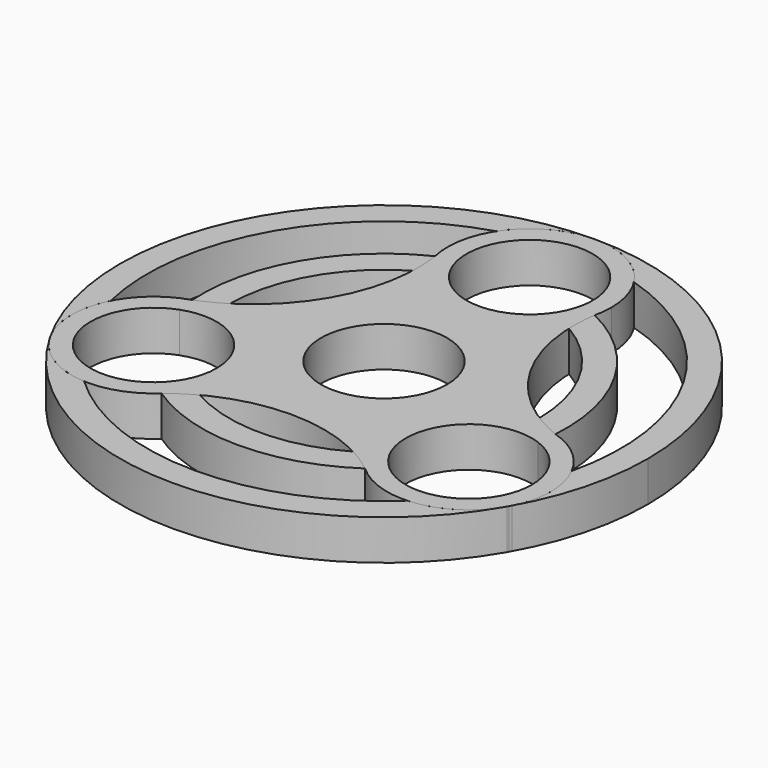
from build123d import *

# Parameters (mm, degrees)
F0_R     = 10.9982
F1_DEPTH = 7
F3_DEPTH = 7


with BuildPart() as f1:
    # F0 (on Top) → F1 (new body)
    with BuildSketch(Plane.XY):
        with BuildLine():
            ThreePointArc((14.2875, 31.75), (-1.6177474644, 45.94561726), (-13.9211508334, 28.5353125))
            ThreePointArc((-13.9211508334, 28.5353125), (-12.3938804515, 29.2310490293), (-10.8319806145, 29.84511176))
            ThreePointArc((-10.8319806145, 29.84511176), (-0.9560632943, 42.7065663516), (10.9982, 31.75))
            ThreePointArc((10.9982, 31.75), (10.9565663516, 30.7939367057), (10.8319806145, 29.84511176))
            ThreePointArc((10.8319806145, 29.84511176), (12.3938804515, 29.2310490293), (13.9211508334, 28.5353125))
            ThreePointArc((13.9211508334, 28.5353125), (14.19561726, 30.1322525356), (14.2875, 31.75))
        make_face()
        with BuildLine():
            ThreePointArc((-10.8319806145, 29.84511176), (-12.3938804515, 29.2310490293), (-13.9211508334, 28.5353125))
            ThreePointArc((-13.9211508334, 28.5353125), (0, 17.4625), (13.9211508334, 28.5353125))
            ThreePointArc((13.9211508334, 28.5353125), (12.3938804515, 29.2310490293), (10.8319806145, 29.84511176))
            ThreePointArc((10.8319806145, 29.84511176), (0, 20.7518), (-10.8319806145, 29.84511176))
        make_face()
        with BuildLine():
            ThreePointArc((-13.9211508334, 28.5353125), (-17.4436657319, 10.0722867823), (-31.6731055039, -2.2083676644))
            ThreePointArc((-31.6731055039, -2.2083676644), (-18.9985169837, -4.3877463628), (-13.2104194975, -15.872206))
            ThreePointArc((-13.2104194975, -15.872206), (-14.3955700405, -21.5696699055), (-17.754404793, -26.3219226206))
            ThreePointArc((-17.754404793, -26.3219226206), (0, -20.1369144797), (17.754404793, -26.3219226206))
            ThreePointArc((17.754404793, -26.3219226206), (15.1238557237, -8.7297133), (31.6731055039, -2.2083676644))
            ThreePointArc((31.6731055039, -2.2083676644), (17.4436657319, 10.0722867823), (13.9211508334, 28.5353125))
            ThreePointArc((13.9211508334, 28.5353125), (0, 17.4625), (-13.9211508334, 28.5353125))
        make_face()
        Circle(F0_R, mode=Mode.SUBTRACT)
        with BuildLine():
            ThreePointArc((31.6731055039, -2.2083676644), (15.1238557237, -8.7297133), (17.754404793, -26.3219226206))
            ThreePointArc((17.754404793, -26.3219226206), (19.1204664369, -25.3469971246), (20.4331040274, -24.3012501696))
            ThreePointArc((20.4331040274, -24.3012501696), (17.9726401836, -10.3740738416), (31.2631782133, -5.5386088507))
            ThreePointArc((31.2631782133, -5.5386088507), (31.5121655654, -3.8789072401), (31.6731055039, -2.2083676644))
        make_face()
        with BuildLine():
            ThreePointArc((20.4331040274, -24.3012501696), (19.1204664369, -25.3469971246), (17.754404793, -26.3219226206))
            ThreePointArc((17.754404793, -26.3219226206), (33.195383403, -28.9745554571), (41.7854194975, -15.872206))
            ThreePointArc((41.7854194975, -15.872206), (38.9823791347, -7.3728034862), (31.6731055039, -2.2083676644))
            ThreePointArc((31.6731055039, -2.2083676644), (31.5121655654, -3.8789072401), (31.2631782133, -5.5386088507))
            ThreePointArc((31.2631782133, -5.5386088507), (36.5082322459, -9.5654899436), (38.4961194975, -15.872206))
            ThreePointArc((38.4961194975, -15.872206), (32.1487339282, -25.8386661726), (20.4331040274, -24.3012501696))
        make_face()
        with BuildLine():
            ThreePointArc((-13.2104194975, -15.872206), (-18.9985169837, -4.3877463628), (-31.6731055039, -2.2083676644))
            ThreePointArc((-31.6731055039, -2.2083676644), (-31.5121655654, -3.8789072401), (-31.2631782133, -5.5386088507))
            ThreePointArc((-31.2631782133, -5.5386088507), (-21.1912034411, -6.8618932516), (-16.4997194975, -15.872206))
            ThreePointArc((-16.4997194975, -15.872206), (-17.531459325, -20.5230204306), (-20.4331040274, -24.3012501696))
            ThreePointArc((-20.4331040274, -24.3012501696), (-19.1204664369, -25.3469971246), (-17.754404793, -26.3219226206))
            ThreePointArc((-17.754404793, -26.3219226206), (-14.3955700405, -21.5696699055), (-13.2104194975, -15.872206))
        make_face()
        with BuildLine():
            ThreePointArc((-31.2631782133, -5.5386088507), (-31.5121655654, -3.8789072401), (-31.6731055039, -2.2083676644))
            ThreePointArc((-31.6731055039, -2.2083676644), (-39.8719832714, -23.0146987), (-17.754404793, -26.3219226206))
            ThreePointArc((-17.754404793, -26.3219226206), (-19.1204664369, -25.3469971246), (-20.4331040274, -24.3012501696))
            ThreePointArc((-20.4331040274, -24.3012501696), (-37.0231988115, -21.3703381584), (-31.2631782133, -5.5386088507))
        make_face()
    extrude(amount=F1_DEPTH)


with BuildPart() as f3:
    # F2 (on face) → F3 (new body)
    with BuildSketch(Plane.XY.offset(7)):
        with BuildLine():
            ThreePointArc((-12.0099778464, 39.4890625), (-6.8396199042, 44.2940127478), (-7.2e-09, 46.0375))
            ThreePointArc((-7.2e-09, 46.0375), (-39.8684755679, 23.0207745773), (-39.8719821395, -23.014700661))
            ThreePointArc((-39.8719821395, -23.014700661), (-41.7811984871, -16.2194775883), (-40.2044694202, -9.3395001814))
            ThreePointArc((-40.2044694202, -9.3395001814), (-35.74415, 20.6393160201), (-12.0099778464, 39.4890625))
        make_face()
    extrude(amount=-F3_DEPTH)


with BuildPart() as f3b:
    # F2 (on face) → F3, piece 2 (new body)
    with BuildSketch(Plane.XY.offset(7)):
        with BuildLine():
            ThreePointArc((39.871982137, -23.0147006653), (44.4694152417, -11.9131236168), (46.0375, 0))
            ThreePointArc((46.0375, 0), (32.5534284363, 32.5534284414), (-7.2e-09, 46.0375))
            ThreePointArc((-7.2e-09, 46.0375), (6.8396198979, 44.2940127512), (12.0099778464, 39.4890625))
            ThreePointArc((12.0099778464, 39.4890625), (35.74415, 20.6393160201), (40.2044694202, -9.3395001814))
            ThreePointArc((40.2044694202, -9.3395001814), (41.7811984871, -16.2194775908), (39.871982137, -23.0147006653))
        make_face()
    extrude(amount=-F3_DEPTH)


with BuildPart() as f3c:
    # F2 (on face) → F3, piece 3 (new body)
    with BuildSketch(Plane.XY.offset(7)):
        with BuildLine():
            ThreePointArc((31.6731055039, -2.2083676644), (27.4955, 15.8763969385), (13.9211508334, 28.5353125))
            ThreePointArc((13.9211508334, 28.5353125), (13.6571299997, 25.9192105589), (13.63469832, 23.2899153707))
            ThreePointArc((13.63469832, 23.2899153707), (23.371175, 13.4949373978), (26.9869908173, 0.1657795997))
            ThreePointArc((26.9869908173, 0.1657795997), (29.2753746807, -1.1292090724), (31.6731055039, -2.2083676644))
        make_face()
    extrude(amount=-F3_DEPTH)


with BuildPart() as f3d:
    # F2 (on face) → F3, piece 4 (new body)
    with BuildSketch(Plane.XY.offset(7)):
        with BuildLine():
            ThreePointArc((-13.63469832, 23.2899153707), (-13.6571299997, 25.9192105589), (-13.9211508334, 28.5353125))
            ThreePointArc((-13.9211508334, 28.5353125), (-27.4955, 15.8763969385), (-31.6731055039, -2.2083676644))
            ThreePointArc((-31.6731055039, -2.2083676644), (-29.2753746807, -1.1292090724), (-26.9869908173, 0.1657795997))
            ThreePointArc((-26.9869908173, 0.1657795997), (-23.371175, 13.4949373978), (-13.63469832, 23.2899153707))
        make_face()
    extrude(amount=-F3_DEPTH)


with BuildPart() as f3e:
    # F2 (on face) → F3, piece 5 (new body)
    with BuildSketch(Plane.XY.offset(7)):
        with BuildLine():
            ThreePointArc((-17.754404793, -26.3219226206), (0, -31.75), (17.754404793, -26.3219226206))
            ThreePointArc((17.754404793, -26.3219226206), (15.6215531983, -24.7849903006), (13.3564788322, -23.450578446))
            ThreePointArc((13.3564788322, -23.450578446), (0, -26.9875), (-13.3564788322, -23.450578446))
            ThreePointArc((-13.3564788322, -23.450578446), (-15.6215531983, -24.7849903006), (-17.754404793, -26.3219226206))
        make_face()
    extrude(amount=-F3_DEPTH)


with BuildPart() as f3f:
    # F2 (on face) → F3, piece 6 (new body)
    with BuildSketch(Plane.XY.offset(7)):
        with BuildLine():
            ThreePointArc((-39.8719821395, -23.014700661), (-2.5e-09, -46.0375), (39.871982137, -23.0147006653))
            ThreePointArc((39.871982137, -23.0147006653), (34.9427814183, -28.066741138), (28.1966053299, -30.1426122436))
            ThreePointArc((28.1966053299, -30.1426122436), (0, -41.275), (-28.1966053299, -30.1426122436))
            ThreePointArc((-28.1966053299, -30.1426122436), (-34.9427814204, -28.0667411367), (-39.8719821395, -23.014700661))
        make_face()
    extrude(amount=-F3_DEPTH)


solid = Compound([f1.part, f3.part, f3b.part, f3c.part, f3d.part, f3e.part, f3f.part])
